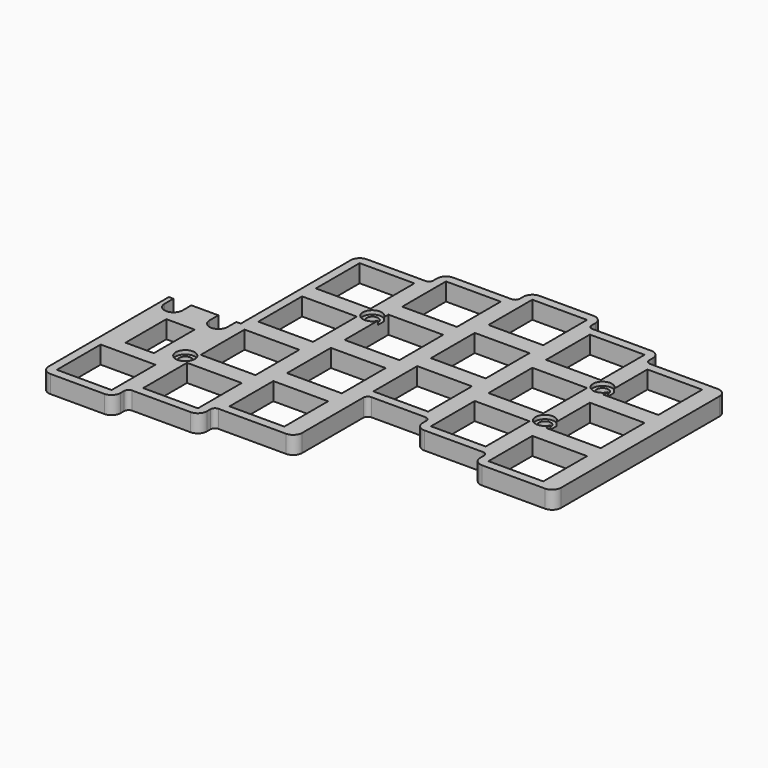
from build123d import *

# Parameters (mm, degrees)
SKETCH_R        = 1.55
SKETCH_W        = 14.5
SKETCH_H        = 14.5
SKETCH_W_2      = 7.5
SKETCH_H_2      = 13.5
PAD_DEPTH       = 4.7
SKETCH004_R     = 2.5
POCKET003_DEPTH = 1
FILLET_R        = 1.190625
FILLET001_R     = 2.38125
SKETCH006_W     = 2.38125
SKETCH006_H     = 9.525
POCKET005_DEPTH = 2.7


with BuildPart() as part:
    # Sketch → Pad (new body)
    with BuildSketch(Plane.XY):
        with BuildLine():
            Line((0, 0), (19.05, 0))
            Line((19.05, 0), (19.05, 4.7625))
            Line((19.05, 4.7625), (38.1, 4.7625))
            Line((38.1, 4.7625), (38.1, 9.525))
            Line((38.1, 9.525), (59.53125, 9.525))
            Line((59.53125, 9.525), (59.53125, 33.3375))
            Line((59.53125, 33.3375), (76.2, 33.3375))
            Line((76.2, 33.3375), (76.2, 28.575))
            Line((76.2, 28.575), (95.25, 28.575))
            Line((95.25, 28.575), (95.25, 23.8125))
            Line((95.25, 23.8125), (116.68125, 23.8125))
            Line((116.68125, 23.8125), (116.68125, 80.9625))
            Line((116.68125, 80.9625), (95.25, 80.9625))
            Line((95.25, 80.9625), (95.25, 85.725))
            Line((95.25, 85.725), (76.2, 85.725))
            Line((76.2, 85.725), (76.2, 90.4875))
            Line((76.2, 90.4875), (57.15, 90.4875))
            Line((57.15, 90.4875), (57.15, 85.725))
            Line((57.15, 85.725), (38.1, 85.725))
            Line((38.1, 85.725), (38.1, 80.9625))
            Line((38.1, 80.9625), (19.05, 80.9625))
            Line((19.05, 80.9625), (19.05, 42.2))
            Line((17.859375, 42.2), (19.05, 42.2))
            Line((17.859375, 39.290625), (17.859375, 42.2))
            ThreePointArc((13.096875, 39.290625), (15.478125, 36.909375), (17.859375, 39.290625))
            Line((13.096875, 39.290625), (13.096875, 42.2))
            Line((5.953125, 42.2), (13.096875, 42.2))
            Line((5.953125, 39.290625), (5.953125, 42.2))
            ThreePointArc((1.190625, 39.290625), (3.571875, 36.909375), (5.953125, 39.290625))
            Line((1.190625, 39.290625), (1.190625, 42.2))
            Line((0, 42.2), (1.190625, 42.2))
            Line((0, 0), (0, 42.2))
        make_face()
        with Locations((19.05, 23.8125)):
            Circle(SKETCH_R, mode=Mode.SUBTRACT)
        with Locations((38.1, 61.9125)):
            Circle(SKETCH_R, mode=Mode.SUBTRACT)
        with Locations((95.25, 66.675)):
            Circle(SKETCH_R, mode=Mode.SUBTRACT)
        with Locations((95.25, 47.625)):
            Circle(SKETCH_R, mode=Mode.SUBTRACT)
        with Locations((9.525, 9.525)):
            Rectangle(SKETCH_W, SKETCH_H, mode=Mode.SUBTRACT)
        with Locations((28.575, 14.2875)):
            Rectangle(SKETCH_W, SKETCH_H, mode=Mode.SUBTRACT)
        with Locations((47.625, 19.05)):
            Rectangle(SKETCH_W, SKETCH_H, mode=Mode.SUBTRACT)
        with Locations((28.575, 33.3375)):
            Rectangle(SKETCH_W, SKETCH_H, mode=Mode.SUBTRACT)
        with Locations((28.575, 52.3875)):
            Rectangle(SKETCH_W, SKETCH_H, mode=Mode.SUBTRACT)
        with Locations((28.575, 71.4375)):
            Rectangle(SKETCH_W, SKETCH_H, mode=Mode.SUBTRACT)
        with Locations((47.625, 38.1)):
            Rectangle(SKETCH_W, SKETCH_H, mode=Mode.SUBTRACT)
        with Locations((47.625, 57.15)):
            Rectangle(SKETCH_W, SKETCH_H, mode=Mode.SUBTRACT)
        with Locations((47.625, 76.2)):
            Rectangle(SKETCH_W, SKETCH_H, mode=Mode.SUBTRACT)
        with Locations((66.675, 42.8625)):
            Rectangle(SKETCH_W, SKETCH_H, mode=Mode.SUBTRACT)
        with Locations((66.675, 61.9125)):
            Rectangle(SKETCH_W, SKETCH_H, mode=Mode.SUBTRACT)
        with Locations((66.675, 80.9625)):
            Rectangle(SKETCH_W, SKETCH_H, mode=Mode.SUBTRACT)
        with Locations((85.725, 76.2)):
            Rectangle(SKETCH_W, SKETCH_H, mode=Mode.SUBTRACT)
        with Locations((85.725, 57.15)):
            Rectangle(SKETCH_W, SKETCH_H, mode=Mode.SUBTRACT)
        with Locations((85.725, 38.1)):
            Rectangle(SKETCH_W, SKETCH_H, mode=Mode.SUBTRACT)
        with Locations((104.775, 33.3375)):
            Rectangle(SKETCH_W, SKETCH_H, mode=Mode.SUBTRACT)
        with Locations((104.775, 52.3875)):
            Rectangle(SKETCH_W, SKETCH_H, mode=Mode.SUBTRACT)
        with Locations((104.775, 71.4375)):
            Rectangle(SKETCH_W, SKETCH_H, mode=Mode.SUBTRACT)
        with Locations((9.525, 27.384375)):
            Rectangle(SKETCH_W_2, SKETCH_H_2, mode=Mode.SUBTRACT)
    extrude(amount=PAD_DEPTH)

    # Sketch004 (on Face114 of Pad) → Pocket003 (cut)
    with BuildSketch(Plane.XY.offset(4.7)):
        with Locations((19.05, 23.8125)):
            Circle(SKETCH004_R)
        with Locations((38.1, 61.9125)):
            Circle(SKETCH004_R)
        with Locations((95.25, 66.675)):
            Circle(SKETCH004_R)
        with Locations((95.25, 47.625)):
            Circle(SKETCH004_R)
    extrude(amount=-POCKET003_DEPTH, mode=Mode.SUBTRACT)

    # Fillet
    fillet_edges = [part.edges().sort_by_distance(p)[0] for p in [
        (19.05, 4.7625, 2.35),
        (38.1, 9.525, 2.35),
        (59.53125, 33.3375, 2.35),
        (76.2, 85.725, 2.35),
        (76.2, 33.3375, 2.35),
        (95.25, 28.575, 2.35),
        (38.1, 80.9625, 2.35),
        (57.15, 85.725, 2.35),
        (95.25, 80.9625, 2.35),
    ]]
    fillet(fillet_edges, radius=FILLET_R)

    # Fillet001
    fillet001_edges = [part.edges().sort_by_distance(p)[0] for p in [
        (0, 0, 2.35),
        (19.05, 0, 2.35),
        (38.1, 4.7625, 2.35),
        (59.53125, 9.525, 2.35),
        (76.2, 28.575, 2.35),
        (19.05, 80.9625, 2.35),
        (95.25, 85.725, 2.35),
        (116.68125, 80.9625, 2.35),
        (76.2, 90.4875, 2.35),
        (57.15, 90.4875, 2.35),
        (38.1, 85.725, 2.35),
        (95.25, 23.8125, 2.35),
        (116.68125, 23.8125, 2.35),
    ]]
    fillet(fillet001_edges, radius=FILLET001_R)

    # Sketch006 (on Face1 of Fillet001) → Pocket005 (cut)
    with BuildSketch(Plane(origin=(0, 0, 0), x_dir=(1, 0, 0), z_dir=(0, 0, -1))):
        with Locations((19.05, -9.525)):
            Rectangle(SKETCH006_W, SKETCH006_H)
        with Locations((38.1, -14.2875)):
            Rectangle(SKETCH006_W, SKETCH006_H)
        with Locations((38.1, -33.3375)):
            Rectangle(SKETCH006_W, SKETCH006_H)
        with Locations((38.1, -52.3875)):
            Rectangle(SKETCH006_W, SKETCH006_H)
        with Locations((38.1, -71.4375)):
            Rectangle(SKETCH006_W, SKETCH006_H)
        with Locations((57.15, -76.2)):
            Rectangle(SKETCH006_W, SKETCH006_H)
        with Locations((57.15, -57.15)):
            Rectangle(SKETCH006_W, SKETCH006_H)
        with Locations((57.15, -38.1)):
            Rectangle(SKETCH006_W, SKETCH006_H)
        with Locations((57.15, -19.05)):
            Rectangle(SKETCH006_W, SKETCH006_H)
        with Locations((76.2, -42.8625)):
            Rectangle(SKETCH006_W, SKETCH006_H)
        with Locations((76.2, -61.9125)):
            Rectangle(SKETCH006_W, SKETCH006_H)
        with Locations((76.2, -80.9625)):
            Rectangle(SKETCH006_W, SKETCH006_H)
        with Locations((95.25, -76.2)):
            Rectangle(SKETCH006_W, SKETCH006_H)
        with Locations((95.25, -57.15)):
            Rectangle(SKETCH006_W, SKETCH006_H)
        with Locations((95.25, -38.1)):
            Rectangle(SKETCH006_W, SKETCH006_H)
        with Locations((114.3, -33.3375)):
            Rectangle(SKETCH006_W, SKETCH006_H)
        with Locations((114.3, -52.3875)):
            Rectangle(SKETCH006_W, SKETCH006_H)
        with Locations((114.3, -71.4375)):
            Rectangle(SKETCH006_W, SKETCH006_H)
    extrude(amount=-POCKET005_DEPTH, mode=Mode.SUBTRACT)


with BuildPart() as part_1:
    # Body placement: moved
    add(part.part.moved(Location((4, 4, 6.3))))


solid = part_1.part
